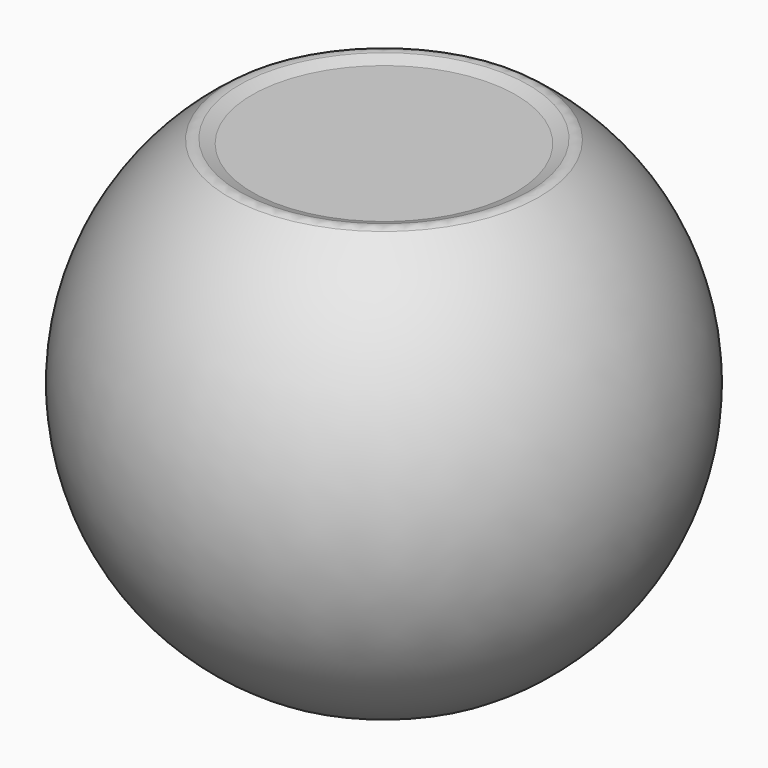
from build123d import *

# Parameters (mm, degrees)
F2_R    = 1
F3_SIZE = 0.4


with BuildPart() as f1:
    # F0 (on Front) → F1 (revolve)
    with BuildSketch(Plane.XZ):
        with BuildLine():
            Line((0, 15.5), (6, 15.5))
            Line((6, 15.5), (6.25, -20.054613))
            Line((6.25, -20.054613), (12.25, -20.054613))
            ThreePointArc((12.25, -20.054613), (23.490577, -0.665412), (13.36561, 19.329006))
            Line((13.36561, 19.329006), (11.74231, 18.738173))
            Line((11.74231, 18.738173), (0, 18.738173))
            Line((0, 18.738173), (0, 15.5))
        make_face()
    revolve(axis=Axis((0, 0, 19.5), (0, 0, -1)))

    # F2
    f2_edges = [f1.edges().sort_by_distance(p)[0] for p in [
        (-13.36561, 0, 19.329006),
    ]]
    fillet(f2_edges, radius=F2_R)

    # F3
    f3_edges = [f1.edges().sort_by_distance(p)[0] for p in [
        (-6.25, 0, -20.054613),
    ]]
    chamfer(f3_edges, length=F3_SIZE)


solid = f1.part
